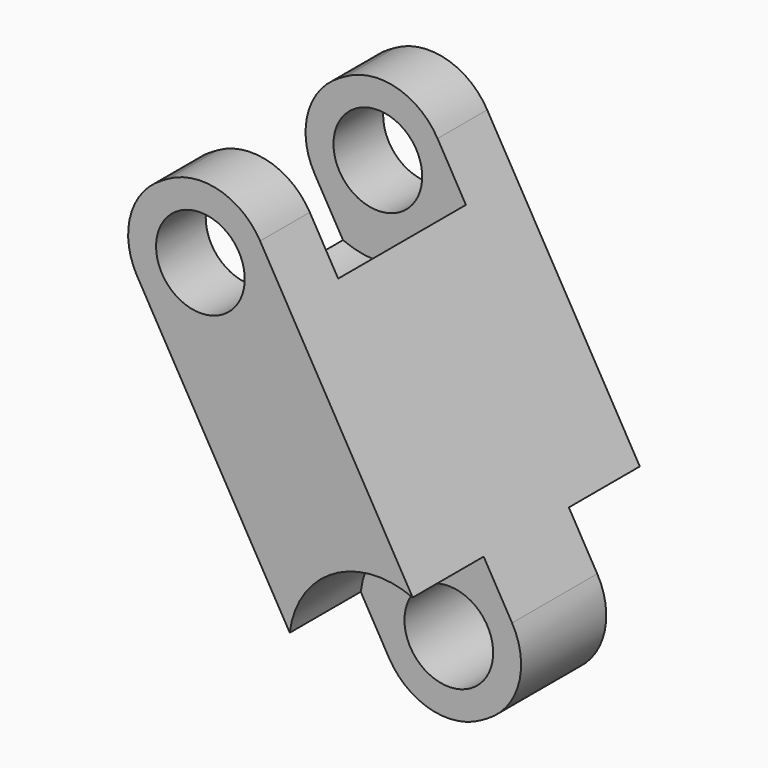
from build123d import *

# Parameters (mm, degrees)
CYLINDER001_R          = 2.5
CYLINDER001_DEPTH      = 2.5
CYLINDER001_ROLL_ANGLE = 90
CYLINDER002_R          = 2.5
CYLINDER002_DEPTH      = 2.5
CYLINDER002_ROLL_ANGLE = 90
CYLINDER_R             = 2.5
CYLINDER_DEPTH         = 4.5
CYLINDER_ROLL_ANGLE    = 90
SKETCH_R               = 1.25
PAD002_DEPTH           = 4
CUT002_PITCH_ANGLE     = 60.000022


with BuildPart() as cylinder001:
    # Cylinder001 → Cylinder001 (new body)
    with BuildSketch(Plane.XY):
        Circle(CYLINDER001_R)
    extrude(amount=CYLINDER001_DEPTH)


with BuildPart() as cylinder001_1:
    # Cylinder001 roll: moved
    add(cylinder001.part.rotate(Axis((0, 0, 0), (1, 0, 0)), CYLINDER001_ROLL_ANGLE))


with BuildPart() as cylinder001_2:
    # Cylinder001 placement: moved
    add(cylinder001_1.part.moved(Location((5, 4, 0))))


with BuildPart() as cylinder002:
    # Cylinder002 → Cylinder002 (new body)
    with BuildSketch(Plane.XY):
        Circle(CYLINDER002_R)
    extrude(amount=CYLINDER002_DEPTH)


with BuildPart() as cylinder002_1:
    # Cylinder002 roll: moved
    add(cylinder002.part.rotate(Axis((0, 0, 0), (1, 0, 0)), CYLINDER002_ROLL_ANGLE))


with BuildPart() as cylinder002_2:
    # Cylinder002 placement: moved
    add(cylinder002_1.part.moved(Location((5, -1.5, 0))))


with BuildPart() as axes_cutout002:
    # Cylinder → Cylinder (new body)
    with BuildSketch(Plane.XY):
        Circle(CYLINDER_R)
    extrude(amount=CYLINDER_DEPTH)


with BuildPart() as axes_cutout002_1:
    # Cylinder roll: moved
    add(axes_cutout002.part.rotate(Axis((0, 0, 0), (1, 0, 0)), CYLINDER_ROLL_ANGLE))


with BuildPart() as axes_cutout002_2:
    # Cylinder placement: moved
    add(axes_cutout002_1.part.moved(Location((-5, 2.25, 0))))

    # Fusion002: union Cylinder001, Cylinder002
    add(cylinder001_2.part)
    add(cylinder002_2.part)


with BuildPart() as track_shape002:
    # Sketch → Pad002 (new body, symmetric)
    with BuildSketch(Plane.XZ):
        with BuildLine():
            Line((-5.1, 2), (5.1, 2))
            ThreePointArc((7, 0.1), (6.443503, 1.443503), (5.1, 2))
            Line((7, 0.1), (7, -0.1))
            ThreePointArc((5.1, -2), (6.443503, -1.443503), (7, -0.1))
            Line((5.1, -2), (-5.1, -2))
            ThreePointArc((-7, -0.1), (-6.443503, -1.443503), (-5.1, -2))
            Line((-7, -0.1), (-7, 0.1))
            ThreePointArc((-5.1, 2), (-6.443503, 1.443503), (-7, 0.1))
        make_face()
        with Locations((-5, 0)):
            Circle(SKETCH_R, mode=Mode.SUBTRACT)
        with Locations((5, 0)):
            Circle(SKETCH_R, mode=Mode.SUBTRACT)
    extrude(amount=PAD002_DEPTH, both=True)

    # Cut002: cut axes-cutout002
    add(axes_cutout002_2.part, mode=Mode.SUBTRACT)


with BuildPart() as track_shape002_1:
    # Cut002 pitch: moved
    add(track_shape002.part.rotate(Axis((0, 0, 0), (0, 1, 0)), CUT002_PITCH_ANGLE))


with BuildPart() as track_shape002_2:
    # Cut002 placement: moved
    add(track_shape002_1.part.moved(Location((-7.513591, 8.3e-05, 4.333452))))


solid = track_shape002_2.part
